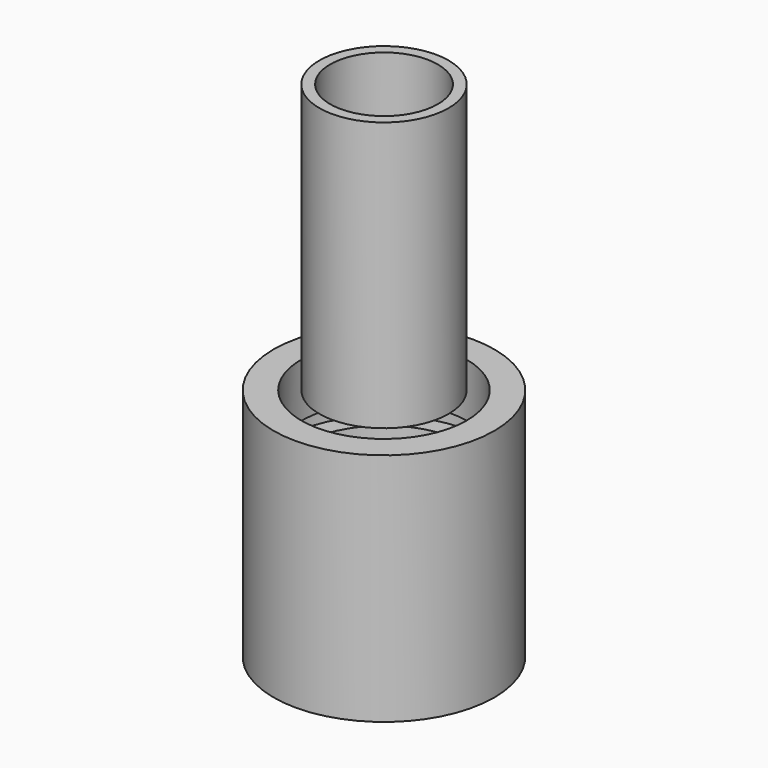
from build123d import *

# Parameters (mm, degrees)
F0_R      = 20.5
F0_R_2    = 15.35
F1_DEPTH  = 10
F2_R      = 20.5
F2_R_2    = 18.5
F3_DEPTH  = 3.8
F4_R      = 20.5
F4_R_2    = 18.5
F4_R_3    = 15.35
F5_DEPTH  = 16
F6_R      = 20.5
F6_R_2    = 18.5
F7_DEPTH  = 3.8
F8_R      = 20.5
F8_R_2    = 18.5
F8_R_3    = 15.35
F9_DEPTH  = 10
F10_R     = 12
F10_R_2   = 10
F11_DEPTH = 50


with BuildPart() as f1:
    # F0 (on Top) → F1 (new body)
    with BuildSketch(Plane.XY):
        Circle(F0_R)
        Circle(F0_R_2, mode=Mode.SUBTRACT)
    extrude(amount=F1_DEPTH)

    # F2 (on face) → F3 (join)
    with BuildSketch(Plane.XY.offset(10)):
        Circle(F2_R)
        Circle(F2_R_2, mode=Mode.SUBTRACT)
    extrude(amount=F3_DEPTH)

    # F4 (on face) → F5 (join)
    with BuildSketch(Plane.XY.offset(13.8)):
        Circle(F4_R)
        Circle(F4_R_2, mode=Mode.SUBTRACT)
        Circle(F4_R_2)
        Circle(F4_R_3, mode=Mode.SUBTRACT)
    extrude(amount=F5_DEPTH)

    # F6 (on face) → F7 (join)
    with BuildSketch(Plane.XY.offset(29.8)):
        Circle(F6_R)
        Circle(F6_R_2, mode=Mode.SUBTRACT)
    extrude(amount=F7_DEPTH)

    # F8 (on face) → F9 (join)
    with BuildSketch(Plane.XY.offset(33.6)):
        Circle(F8_R)
        Circle(F8_R_2, mode=Mode.SUBTRACT)
        Circle(F8_R_2)
        Circle(F8_R_3, mode=Mode.SUBTRACT)
    extrude(amount=F9_DEPTH)


with BuildPart() as f11:
    # F10 (on face) → F11 (new body)
    with BuildSketch(Plane.XY.offset(43.6)):
        Circle(F10_R)
        Circle(F10_R_2, mode=Mode.SUBTRACT)
    extrude(amount=F11_DEPTH)


solid = Compound([f1.part, f11.part])
